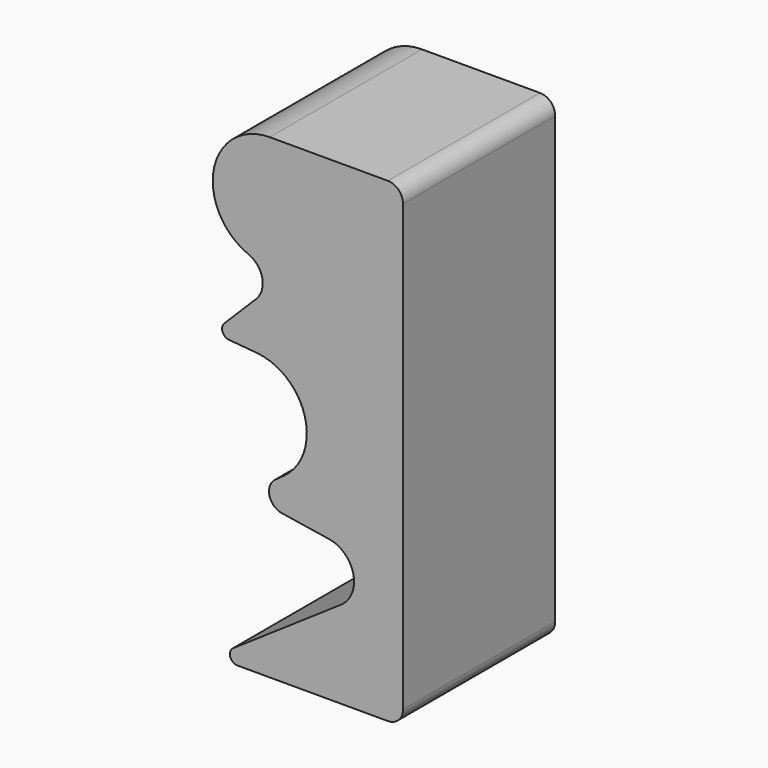
from build123d import *

# Parameters (mm, degrees)
F1_DEPTH = 6.35


with BuildPart() as f1:
    # F0 (on Front) → F1 (new body)
    with BuildSketch(Plane.XZ):
        with BuildLine():
            Line((6.35, -6.653839), (6.35, 4.395161))
            ThreePointArc((6.35, 4.395161), (6.20121, 4.754371), (5.842, 4.903161))
            Line((5.842, 4.903161), (1.905, 4.903161))
            ThreePointArc((1.905, 4.903161), (0.034613, 3.359654), (1.195151, 1.230355))
            ThreePointArc((1.195151, 1.230355), (1.651965, 0.682882), (1.446839, 0))
            Line((1.446839, 0), (0.385164, -1.061674))
            ThreePointArc((0.385164, -1.061674), (0.326088, -1.328153), (0.542632, -1.494313))
            Line((0.542632, -1.494313), (1.463239, -1.574856))
            ThreePointArc((1.463239, -1.574856), (3.07075, -2.911808), (2.381426, -4.88573))
            Line((2.381426, -4.88573), (2.085889, -5.10045))
            ThreePointArc((2.085889, -5.10045), (1.89052, -5.630021), (2.305015, -6.013176))
            Line((2.305015, -6.013176), (3.878493, -6.262391))
            ThreePointArc((3.878493, -6.262391), (4.690679, -7.02498), (4.28077, -8.060916))
            Line((4.28077, -8.060916), (0.682411, -10.5078))
            ThreePointArc((0.682411, -10.5078), (0.582476, -10.792558), (0.825238, -10.971839))
            Line((0.825238, -10.971839), (5.842, -10.971839))
            ThreePointArc((5.842, -10.971839), (6.20121, -10.823049), (6.35, -10.463839))
            Line((6.35, -10.463839), (6.35, -6.653839))
        make_face()
    extrude(amount=F1_DEPTH)


solid = f1.part
